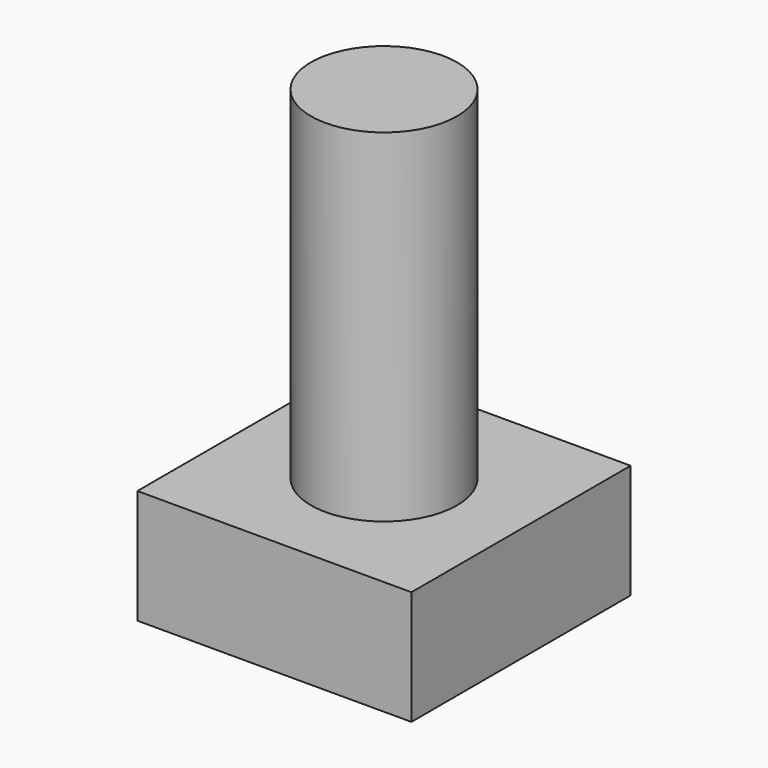
from build123d import *

# Parameters (mm, degrees)
BOX038_W          = 6
BOX038_H          = 6
BOX038_DEPTH      = 2.5
CYLINDER031_R     = 1.6
CYLINDER031_DEPTH = 10


with BuildPart() as cube038:
    # Box038 → Box038 (new body)
    with BuildSketch(Plane.XY):
        with Locations((3, 3)):
            Rectangle(BOX038_W, BOX038_H)
    extrude(amount=BOX038_DEPTH)


with BuildPart() as fusion004002002004005005007:
    # Cylinder031 → Cylinder031 (new body)
    with BuildSketch(Plane(origin=(3, 3, 0), x_dir=(1, 0, 0), z_dir=(0, 0, 1))):
        Circle(CYLINDER031_R)
    extrude(amount=CYLINDER031_DEPTH)

    # Fusion004002002004005005007: union Cube038
    add(cube038.part)


solid = fusion004002002004005005007.part
